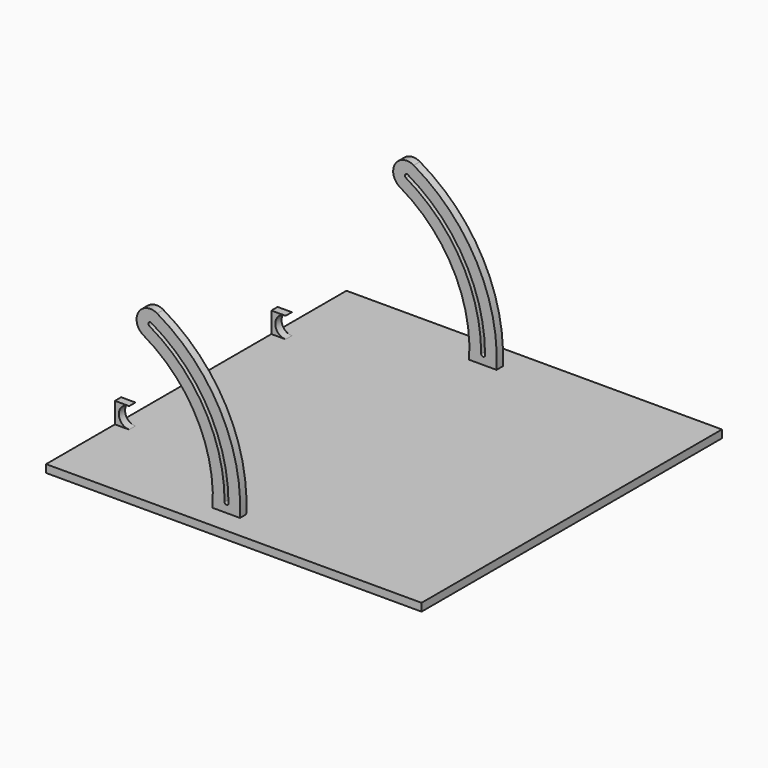
from build123d import *

# Parameters (mm, degrees)
F0_W      = 609.6
F0_H      = 609.6
F1_DEPTH  = 12.7
F2_R      = 12.065
F3_DEPTH  = 50.8
F7_DEPTH  = 266.7
F8_DEPTH  = 254
F9_DEPTH  = 165.1
F10_DEPTH = 152.4


with BuildPart() as f1:
    # F0 (on Top) → F1 (new body)
    with BuildSketch(Plane.XY):
        with Locations((304.8, 304.8)):
            Rectangle(F0_W, F0_H)
    extrude(amount=F1_DEPTH)

    # F2 (on face) → F3 (join)
    with BuildSketch(Plane(origin=(0, 0, 0), x_dir=(1, 0, 0), z_dir=(0, 0, -1))):
        with Locations((304.8, -304.8)):
            Circle(F2_R)
    extrude(amount=F3_DEPTH)

    # F6 (on offset) → F7 (join, symmetric)
    with BuildSketch(Plane.XZ.offset(-304.8)):
        with BuildLine():
            ThreePointArc((127.591476, 222.802752), (213.718068, 133.783712), (239.812403, 12.7))
            Line((239.812403, 12.7), (284.343503, 12.7))
            ThreePointArc((284.343503, 12.7), (252.229854, 156.01992), (149.816476, 261.297581))
            ThreePointArc((149.816476, 261.297581), (119.456561, 253.162667), (127.591476, 222.802752))
        make_face()
        with BuildLine():
            ThreePointArc((265.703976, 27.578975), (262.528976, 24.403975), (259.353976, 27.578975))
            ThreePointArc((259.353976, 27.578975), (226.600536, 149.816475), (137.116476, 239.300536))
            ThreePointArc((137.116476, 239.300536), (135.954345, 243.637667), (140.291476, 244.799797))
            ThreePointArc((140.291476, 244.799797), (232.099797, 152.991475), (265.703976, 27.578975))
        make_face(mode=Mode.SUBTRACT)
    extrude(amount=F7_DEPTH, both=True)

    # F6 (on offset) → F8 (cut, symmetric)
    with BuildSketch(Plane.XZ.offset(-304.8)):
        with BuildLine():
            ThreePointArc((127.591476, 222.802752), (213.718068, 133.783712), (239.812403, 12.7))
            Line((239.812403, 12.7), (284.343503, 12.7))
            ThreePointArc((284.343503, 12.7), (252.229854, 156.01992), (149.816476, 261.297581))
            ThreePointArc((149.816476, 261.297581), (119.456561, 253.162667), (127.591476, 222.802752))
        make_face()
        with BuildLine():
            ThreePointArc((265.703976, 27.578975), (262.528976, 24.403975), (259.353976, 27.578975))
            ThreePointArc((259.353976, 27.578975), (226.600536, 149.816475), (137.116476, 239.300536))
            ThreePointArc((137.116476, 239.300536), (135.954345, 243.637667), (140.291476, 244.799797))
            ThreePointArc((140.291476, 244.799797), (232.099797, 152.991475), (265.703976, 27.578975))
        make_face(mode=Mode.SUBTRACT)
    extrude(amount=F8_DEPTH, both=True, mode=Mode.SUBTRACT)

    # F5 (on offset) → F9 (join, symmetric)
    with BuildSketch(Plane.XZ.offset(-304.8)):
        with BuildLine():
            Line((0, 46.355), (0, 12.7))
            Line((0, 12.7), (23.1775, 12.7))
            ThreePointArc((23.1775, 12.7), (6.35, 29.5275), (23.1775, 46.355))
            Line((23.1775, 46.355), (0, 46.355))
        make_face()
    extrude(amount=F9_DEPTH, both=True)

    # F5 (on offset) → F10 (cut, symmetric)
    with BuildSketch(Plane.XZ.offset(-304.8)):
        with BuildLine():
            Line((0, 46.355), (0, 12.7))
            Line((0, 12.7), (23.1775, 12.7))
            ThreePointArc((23.1775, 12.7), (6.35, 29.5275), (23.1775, 46.355))
            Line((23.1775, 46.355), (0, 46.355))
        make_face()
    extrude(amount=F10_DEPTH, both=True, mode=Mode.SUBTRACT)


solid = f1.part
